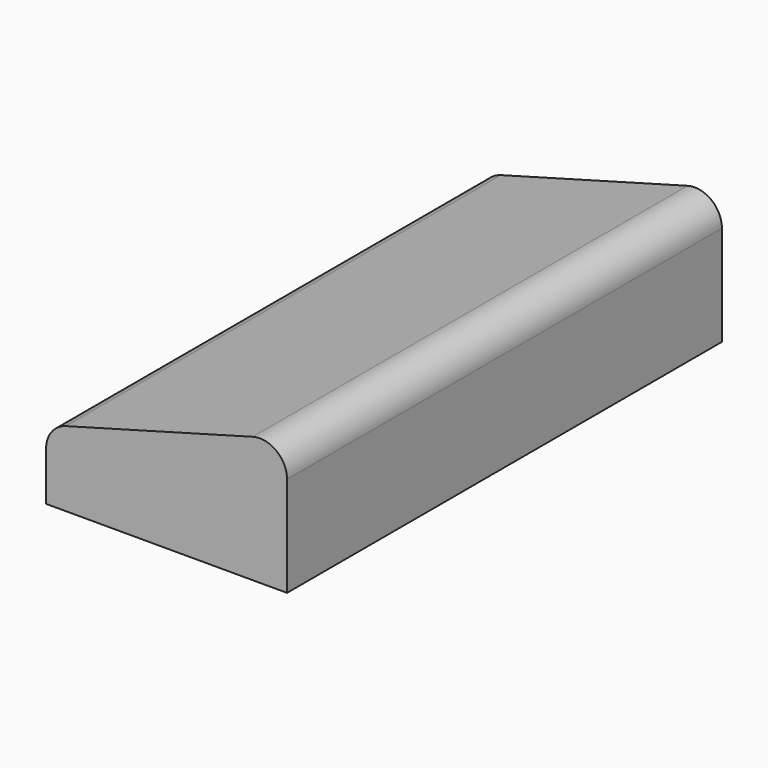
from build123d import *

# Parameters (mm, degrees)
F1_DEPTH = 254


with BuildPart() as f1:
    # F0 (on Front) → F1 (new body)
    with BuildSketch(Plane.XZ):
        with BuildLine():
            Line((-38.254566, 22.777336), (-38.254566, 0))
            Line((-38.254566, 0), (74.345, 0))
            Line((74.345, 0), (74.345, 46.74539))
            ThreePointArc((74.345, 46.74539), (69.343783, 56.845823), (58.279056, 58.991223))
            Line((58.279056, 58.991223), (-28.92051, 35.023169))
            ThreePointArc((-28.92051, 35.023169), (-35.654999, 30.476119), (-38.254566, 22.777336))
        make_face()
    extrude(amount=F1_DEPTH)


solid = f1.part
